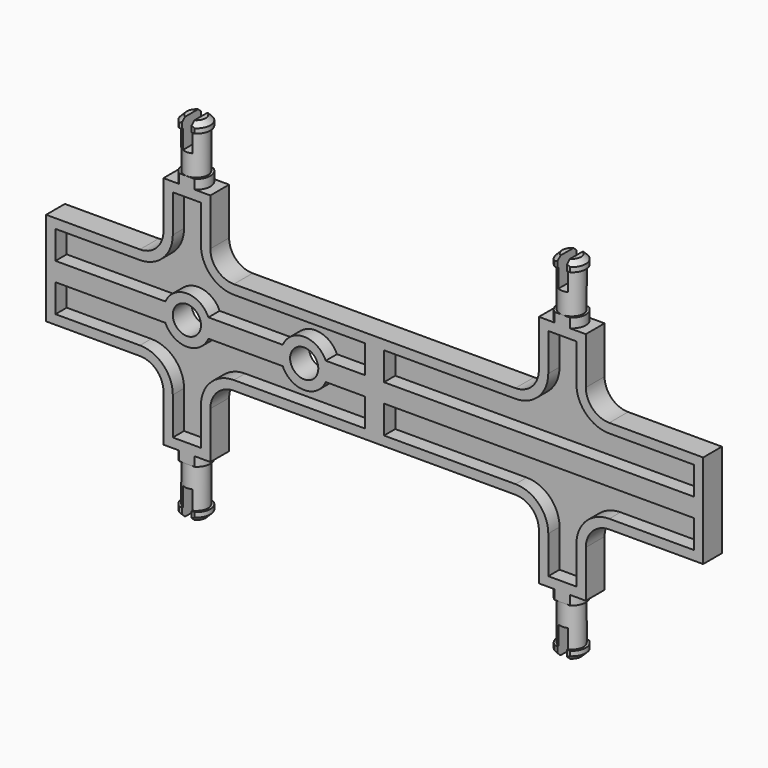
from build123d import *

# Parameters (mm, degrees)
F1_DEPTH  = 2.5
F2_T      = -2
F5_SIZE   = 1
F6_W      = 75
F6_H      = 5
F7_DEPTH  = 37.501
F8_W      = 2
F8_H      = 7.2075595917
F9_DEPTH  = 6
F12_R     = 5
F13_DEPTH = 5
F15_D     = 6


with BuildPart() as f1:
    # F0 (on Front) → F1 (new body, symmetric)
    with BuildSketch(Plane.XZ):
        with BuildLine():
            Line((0, 10), (0, 0))
            Line((0, 0), (70, 0))
            Line((70, 0), (70, 10))
            Line((70, 10), (50, 10))
            ThreePointArc((50, 10), (46.4644660941, 11.4644660941), (45, 15))
            Line((45, 15), (45, 25))
            Line((45, 25), (35, 25))
            Line((35, 25), (35, 15))
            ThreePointArc((35, 15), (33.5355339059, 11.4644660941), (30, 10))
            Line((30, 10), (0, 10))
        make_face()
    extrude(amount=F1_DEPTH, both=True)

    # F2
    f2_openings = [f1.faces().sort_by_distance(p)[0] for p in [
        (35.933685, -2.5, 7.254637),
    ]]
    offset(amount=F2_T, openings=f2_openings)

    # F3 (on Front) → F4 (revolve)
    with BuildSketch(Plane.XZ):
        Polygon((37, 25), (40, 25), (40, 37.5), (37, 37.5), (37, 35.5), (37.5, 35.5), (37.5, 27), (37, 27), align=None)
    revolve(axis=Axis((40, 0, 31.25), (0, 0, 1)))

    # F5
    f5_edges = [f1.edges().sort_by_distance(p)[0] for p in [
        (43, 0, 37.5),
    ]]
    chamfer(f5_edges, length=F5_SIZE)

    # F6 (on face) → F7 (intersect, through all)
    with BuildSketch(Plane.XY.offset(37.5)):
        with Locations((35.0987253711, 0)):
            Rectangle(F6_W, F6_H)
    extrude(amount=-F7_DEPTH, mode=Mode.INTERSECT)

    # F8 (on face) → F9 (cut)
    with BuildSketch(Plane.XY.offset(37.5)):
        with Locations((40, -0.078830868)):
            Rectangle(F8_W, F8_H)
    extrude(amount=-F9_DEPTH, mode=Mode.SUBTRACT)

    # F10: F1 across face


with BuildPart() as f1_1:
    add(f1.part)
    add(f1.part.mirror(Plane(origin=(35, 0, 0), x_dir=(1, 0, 0), z_dir=(0, 0, -1))))

    # F11: F1 across face


with BuildPart() as f1_2:
    add(f1_1.part)
    add(f1_1.part.mirror(Plane(origin=(0, 0, 0), x_dir=(0, -1, 0), z_dir=(-1, 0, 0))))

    # F12 (on face) → F13 (join, through all)
    with BuildSketch(Plane.XZ.offset(2.5)):
        with Locations((-40, 0)):
            Circle(F12_R)
        with Locations((-15, 0)):
            Circle(F12_R)
    extrude(amount=-F13_DEPTH)

    # F15 (through all)
    with Locations(Plane.XZ.offset(2.5)):
        with Locations((-40, 0), (-15, 0)):
            Hole(F15_D / 2)


solid = f1_2.part
